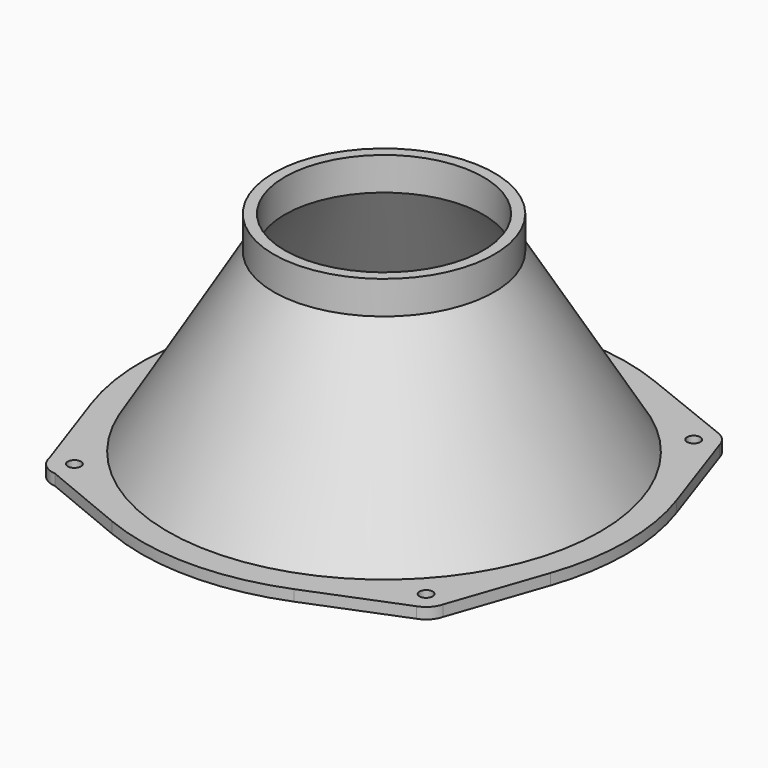
from build123d import *

# Parameters (mm, degrees)
F0_R     = 3
F0_R_2   = 95
F3_DEPTH = 5


with BuildPart() as f2:
    # F1 (on Front) → F2 (revolve)
    with BuildSketch(Plane.XZ):
        Polygon((-98, 5), (-98, 0), (-93, 0), (-93, 5), (-45, 85), (-45, 100), (-50, 100), (-50, 85), align=None)
    revolve(axis=Axis((0, 0, 50), (0, 0, -1)))

    # F0 (on Top) → F3 (join)
    with BuildSketch(Plane.XY):
        with BuildLine():
            Line((-89.325313, 78.598246), (-102.908732, 38.856053))
            Line((-102.908732, 38.856053), (-105.163031, 32.260454))
            ThreePointArc((-105.163031, 32.260454), (-109.982614, -1.955642), (-103.949644, -35.978765))
            Line((-103.949644, -35.978765), (-89.583886, -77.484232))
            ThreePointArc((-89.583886, -77.484232), (-86.476317, -83.165038), (-80.539903, -85.751064))
            Line((-80.539903, -85.751064), (-41.985508, -101.672106))
            ThreePointArc((-41.985508, -101.672106), (-0.564426, -109.998552), (40.939922, -102.097614))
            Line((40.939922, -102.097614), (82.964931, -85.246088))
            ThreePointArc((82.964931, -85.246088), (87.066641, -82.578532), (89.411846, -78.284362))
            Line((89.411846, -78.284362), (104.028902, -35.74895))
            ThreePointArc((104.028902, -35.74895), (109.999998, -0.018173), (104.040709, 35.714576))
            Line((104.040709, 35.714576), (89.353771, 78.499332))
            Line((89.353771, 78.499332), (88.99239, 79.552075))
            ThreePointArc((88.99239, 79.552075), (86.831614, 82.823834), (83.579002, 85.013326))
            Line((83.579002, 85.013326), (83.317816, 85.117976))
            Line((83.317816, 85.117976), (40.912133, 102.108752))
            ThreePointArc((40.912133, 102.108752), (-0.081717, 109.99997), (-41.063798, 102.047854))
            Line((-41.063798, 102.047854), (-82.349187, 85.434718))
            ThreePointArc((-82.349187, 85.434718), (-86.72871, 82.926152), (-89.325313, 78.598246))
        make_face()
        with Locations((-79.729493, -75.783956)):
            Circle(F0_R, mode=Mode.SUBTRACT)
        with Locations((79.729493, -75.783956)):
            Circle(F0_R, mode=Mode.SUBTRACT)
        with Locations((-79.729493, 75.783956)):
            Circle(F0_R, mode=Mode.SUBTRACT)
        Circle(F0_R_2, mode=Mode.SUBTRACT)
        with Locations((79.729493, 75.783956)):
            Circle(F0_R, mode=Mode.SUBTRACT)
    extrude(amount=F3_DEPTH)


solid = f2.part
